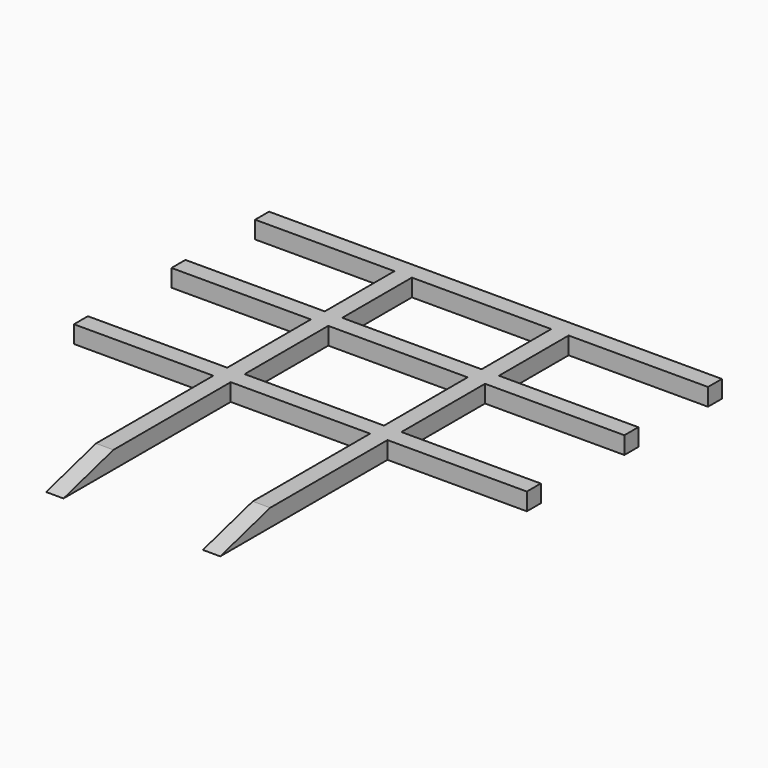
from build123d import *

# Parameters (mm, degrees)
F0_W     = 6.35
F0_H     = 31.75
F0_W_2   = 50.8
F0_H_2   = 6.35
F0_H_3   = 38.1
F0_H_4   = 76.2
F1_DEPTH = 6.35
F3_DEPTH = 63.5


with BuildPart() as f1:
    # F0 (on Top) → F1 (new body)
    with BuildSketch(Plane.XY):
        Polygon((-50.8, 82.55), (0, 82.55), (6.35, 82.55), (57.15, 82.55), (57.15, 88.9), (-107.95, 88.9), (-107.95, 82.55), (-57.15, 82.55), align=None)
        with Locations((-53.975, 66.675)):
            Rectangle(F0_W, F0_H)
        with Locations((3.175, 66.675)):
            Rectangle(F0_W, F0_H)
        with Locations((31.75, 47.625)):
            Rectangle(F0_W_2, F0_H_2)
        with Locations((3.175, 47.625)):
            Rectangle(F0_W, F0_H_2)
        with Locations((-25.4, 47.625)):
            Rectangle(F0_W_2, F0_H_2)
        with Locations((-82.55, 47.625)):
            Rectangle(F0_W_2, F0_H_2)
        with Locations((-53.975, 47.625)):
            Rectangle(F0_W, F0_H_2)
        with Locations((-53.975, 25.4)):
            Rectangle(F0_W, F0_H_3)
        with Locations((3.175, 25.4)):
            Rectangle(F0_W, F0_H_3)
        with Locations((3.175, -38.1)):
            Rectangle(F0_W, F0_H_4)
        with Locations((3.175, 3.175)):
            Rectangle(F0_W, F0_H_2)
        with Locations((31.75, 3.175)):
            Rectangle(F0_W_2, F0_H_2)
        with Locations((-25.4, 3.175)):
            Rectangle(F0_W_2, F0_H_2)
        with Locations((-53.975, 3.175)):
            Rectangle(F0_W, F0_H_2)
        with Locations((-53.975, -38.1)):
            Rectangle(F0_W, F0_H_4)
        with Locations((-82.55, 3.175)):
            Rectangle(F0_W_2, F0_H_2)
    extrude(amount=F1_DEPTH)

    # F2 (on face) → F3 (cut, through all)
    with BuildSketch(Plane(origin=(-57.15, 0, 0), x_dir=(0, -1, 0), z_dir=(-1, 0, 0))):
        Polygon((53.4593649209, 6.35), (76.2, 0), (76.2, 6.35), align=None)
    extrude(amount=-F3_DEPTH, mode=Mode.SUBTRACT)


solid = f1.part
